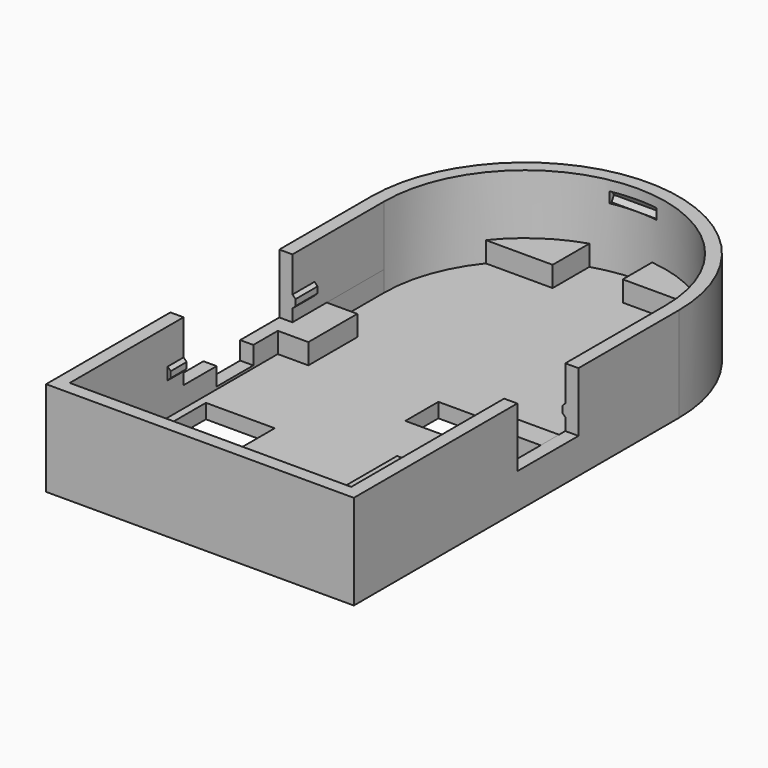
from build123d import *

# Parameters (mm, degrees)
PAD_DEPTH         = 3.9
PAD_DEPTH_BACK    = 2.3
POCKET_DEPTH      = 0.01
POCKET_DEPTH_BACK = 20
POCKET001_DEPTH   = 1.35
PAD001_DEPTH      = 12
POCKET002_DEPTH   = 5
SKETCH004_W       = 5
SKETCH004_H       = 4
POCKET003_DEPTH   = 5
SKETCH006_W       = 4.5
SKETCH006_H       = 5.5
SKETCH006_W_2     = 3.7
SKETCH006_H_2     = 2.7
POCKET004_DEPTH   = 5
PRISM_DEPTH       = 3
PRISM001_DEPTH    = 3


with BuildPart() as part:
    # Sketch → Pad (new body, two sides)
    with BuildSketch(Plane.XY) as pad_sk:
        with BuildLine():
            Line((-0.86, -0.86), (19.26, -0.86))
            Line((19.26, -0.86), (19.26, 25.7000002895))
            ThreePointArc((19.26, 25.7000002895), (9.1999999842, 35.7600003468), (-0.86, 25.7000002578))
            Line((-0.86, -0.86), (-0.86, 25.7000002578))
        make_face()
    extrude(amount=PAD_DEPTH)
    extrude(pad_sk.sketch, amount=-PAD_DEPTH_BACK)

    # Sketch001 → Pocket (cut, two sides)
    with BuildSketch(Plane.XY) as pocket_sk:
        with BuildLine():
            Line((1e-10, 25.6999686791), (1e-10, 0))
            Line((1e-10, 0), (18.4, 0))
            Line((18.4, 0), (18.4, 25.7))
            ThreePointArc((18.4, 25.7), (9.1999843395, 34.9), (1e-10, 25.6999686791))
        make_face()
    extrude(amount=-POCKET_DEPTH, mode=Mode.SUBTRACT)
    extrude(pocket_sk.sketch, amount=POCKET_DEPTH_BACK, mode=Mode.SUBTRACT)

    # Sketch003 → Pocket001 (cut)
    with BuildSketch(Plane.XY):
        with BuildLine():
            Line((17.4, 10), (13.4, 10))
            Line((13.4, 10), (13.4, 0))
            Line((13.4, 0), (0.8, 0))
            Line((0.8, 0), (0.8, 4))
            Line((0.8, 4), (0, 4))
            Line((0, 4), (0, 17))
            Line((0, 17), (2, 17))
            Line((2, 17), (2, 21))
            Line((2, 21), (0, 21))
            Line((1e-10, 25.6999686791), (0, 21))
            ThreePointArc((2.0291307695, 31.4635609201), (0.5220919157, 28.7551450506), (1e-10, 25.6999686791))
            Line((2.0291307695, 31.4635609201), (6.4, 31.4635609201))
            Line((6.4, 31.4635609201), (6.4, 34.4635609201))
            ThreePointArc((10.2, 34.8454906921), (8.2799632683, 34.8538807296), (6.4, 34.4635609201))
            Line((10.2, 34.8454906921), (10.2, 32.4454906921))
            Line((10.2, 32.4454906921), (15.4560654826, 32.4454906921))
            ThreePointArc((18.4, 25.7), (17.6319571405, 29.3799590732), (15.4560654826, 32.4454906921))
            Line((18.4, 25.7), (18.4, 17))
            Line((15.4, 17), (18.4, 17))
            Line((15.4, 15.5), (15.4, 17))
            Line((18.4, 15.5), (15.4, 15.5))
            Line((18.4, 15.5), (18.4, 2))
            Line((17.4, 2), (18.4, 2))
            Line((17.4, 10), (17.4, 2))
        make_face()
    extrude(amount=-POCKET001_DEPTH, mode=Mode.SUBTRACT)

    # Sketch007 (on Face8 of Pocket001) → Pad001 (join)
    with BuildSketch(Plane(origin=(0, 8, 0), x_dir=(-1, 0, 0), z_dir=(0, 1, 0))):
        Polygon((-1e-10, 0.79), (-0.2000000001, 0.99), (-0.2000000001, 1.39), (-1e-10, 1.59), align=None)
        Polygon((-18.4, 1.59), (-18.2, 1.39), (-18.2, 0.99), (-18.4, 0.79), align=None)
    extrude(amount=PAD001_DEPTH)

    # Sketch002 (on Face2 of Pocket) → Pocket002 (cut)
    with BuildSketch(Plane(origin=(-0.86, 0, 0), x_dir=(0, -1, 0), z_dir=(-1, 0, 0))):
        Polygon((-18.2, -0.01), (-18.2, 3.99), (-9.3, 3.99), (-9.3, -0.01), (-12, -0.01), (-12, -1.19), (-15, -1.19), (-15, -0.01), align=None)
    extrude(amount=-POCKET002_DEPTH, mode=Mode.SUBTRACT)

    # Sketch004 (on Face3 of Pocket002) → Pocket003 (cut)
    with BuildSketch(Plane.YZ.offset(19.26)):
        with Locations((15, 2)):
            Rectangle(SKETCH004_W, SKETCH004_H)
    extrude(amount=-POCKET003_DEPTH, mode=Mode.SUBTRACT)

    # Sketch006 (on Face4 of Pocket003) → Pocket004 (cut)
    with BuildSketch(Plane(origin=(0, 0, -2.3), x_dir=(1, 0, 0), z_dir=(0, 0, -1))):
        with Locations((2.75, -7.75)):
            Rectangle(SKETCH006_W, SKETCH006_H)
        with Locations((11.55, -16.65)):
            Rectangle(SKETCH006_W_2, SKETCH006_H_2)
    extrude(amount=-POCKET004_DEPTH, mode=Mode.SUBTRACT)

    # Prism → Prism (cut)
    with BuildSketch(Plane(origin=(7.49996936, 34.6999942124, 2.9), x_dir=(3.4044e-06, -1, 0), z_dir=(1, 3.4044e-06, 0))):
        Polygon((0.4, 0), (0.2, 0.3464101615), (-0.2, 0.3464101615), (-0.4, 0), (-0.2, -0.3464101615), (0.2, -0.3464101615), align=None)
    extrude(amount=PRISM_DEPTH, mode=Mode.SUBTRACT)

    # Prism001 → Prism001 (cut)
    with BuildSketch(Plane(origin=(7.5000000001, 0, 2.9), x_dir=(0, -1, 0), z_dir=(1, 0, 0))):
        Polygon((0.4, 0), (0.2, 0.3464101615), (-0.2, 0.3464101615), (-0.4, 0), (-0.2, -0.3464101615), (0.2, -0.3464101615), align=None)
    extrude(amount=PRISM001_DEPTH, mode=Mode.SUBTRACT)


solid = part.part
